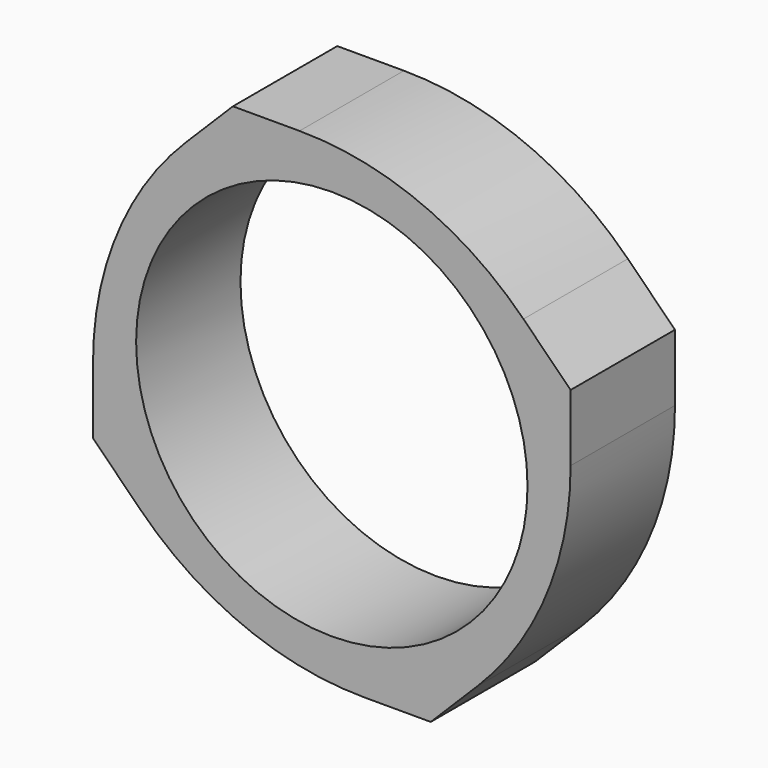
from build123d import *

# Parameters (mm, degrees)
F0_R     = 10.5
F1_DEPTH = 7
F2_R     = 16.9919


with BuildPart() as f1:
    # F0 (on Front) → F1 (new body)
    with BuildSketch(Plane.XZ):
        Polygon((-5.307036, -12.812318), (5.307036, -12.812318), (12.812318, -5.307036), (12.812318, 5.307036), (5.307036, 12.812318), (-5.307036, 12.812318), (-12.812318, 5.307036), (-12.812318, -5.307036), align=None)
        Circle(F0_R, mode=Mode.SUBTRACT)
    extrude(amount=F1_DEPTH)

    # F2
    f2_edges = [f1.edges().sort_by_distance(p)[0] for p in [
        (-12.812318, -3.5, 5.307036),
        (5.307036, -3.5, 12.812318),
        (12.812318, -3.5, -5.307036),
        (-5.307036, -3.5, -12.812318),
    ]]
    fillet(f2_edges, radius=F2_R)


solid = f1.part
